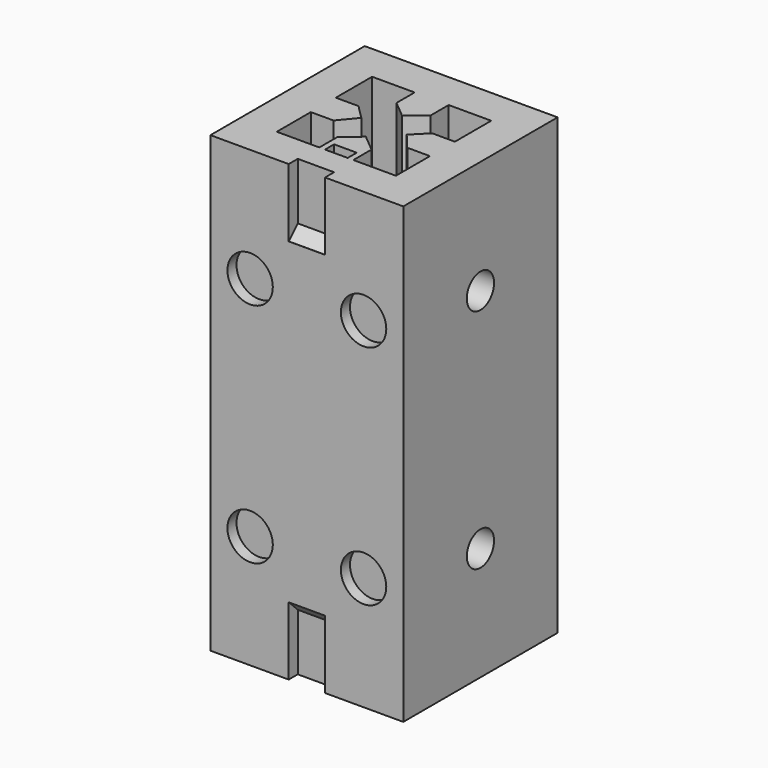
from build123d import *

# Parameters (mm, degrees)
SKETCH_W        = 34
SKETCH_H        = 34
PAD_DEPTH       = 80
POCKET_DEPTH    = 80
SKETCH002_R     = 3
POCKET001_DEPTH = 4
SKETCH003_R     = 3
POCKET002_DEPTH = 4
SKETCH004_R     = 4
POCKET003_DEPTH = 2
SKETCH005_R     = 4
POCKET004_DEPTH = 2
SKETCH006_W     = 6.4
SKETCH006_H     = 2
SKETCH006_W_2   = 4
POCKET005_DEPTH = 12
SKETCH007_W     = 6.4
SKETCH007_H     = 2
SKETCH007_W_2   = 4
POCKET006_DEPTH = 12
CHAMFER_SIZE    = 1.98
CHAMFER001_SIZE = 1.98


with BuildPart() as part:
    # Sketch → Pad (new body)
    with BuildSketch(Plane.XY):
        with Locations((17, 17)):
            Rectangle(SKETCH_W, SKETCH_H)
    extrude(amount=PAD_DEPTH)

    # Sketch001 (on Face6 of Pad) → Pocket (cut)
    with BuildSketch(Plane.XY.offset(80)):
        Polygon((6.5, 27.5), (14, 27.5), (14, 23.5), (17, 21), (20, 23.5), (20, 27.5), (27.5, 27.5), (27.5, 19.5), (23.5, 19.5), (21, 17), (23.5, 14), (27.5, 14), (27.5, 6.5), (20, 6.5), (20, 10.5), (17, 13), (14, 10.5), (14, 6.5), (6.5, 6.5), (6.5, 14), (10.5, 14), (13, 17), (10.5, 19.5), (6.5, 19.5), align=None)
    extrude(amount=-POCKET_DEPTH, mode=Mode.SUBTRACT)

    # Sketch002 (on Face2 of Pocket) → Pocket001 (cut)
    with BuildSketch(Plane(origin=(0, 0, 0), x_dir=(0, -1, 0), z_dir=(-1, 0, 0))):
        with Locations((-17, 60)):
            Circle(SKETCH002_R)
        with Locations((-17, 20)):
            Circle(SKETCH002_R)
    extrude(amount=-POCKET001_DEPTH, mode=Mode.SUBTRACT)

    # Sketch003 (on Face3 of Pocket001) → Pocket002 (cut)
    with BuildSketch(Plane.YZ.offset(34)):
        with Locations((17, 60)):
            Circle(SKETCH003_R)
        with Locations((17, 20)):
            Circle(SKETCH003_R)
    extrude(amount=-POCKET002_DEPTH, mode=Mode.SUBTRACT)

    # Sketch004 (on Face1 of Pocket002) → Pocket003 (cut)
    with BuildSketch(Plane(origin=(0, 34, 0), x_dir=(-1, 0, 0), z_dir=(0, 1, 0))):
        with Locations((-27, 60)):
            Circle(SKETCH004_R)
        with Locations((-7, 60)):
            Circle(SKETCH004_R)
        with Locations((-27, 20)):
            Circle(SKETCH004_R)
        with Locations((-7, 20)):
            Circle(SKETCH004_R)
    extrude(amount=-POCKET003_DEPTH, mode=Mode.SUBTRACT)

    # Sketch005 (on Face10 of Pocket003) → Pocket004 (cut)
    with BuildSketch(Plane.XZ):
        with Locations((7, 60)):
            Circle(SKETCH005_R)
        with Locations((27, 60)):
            Circle(SKETCH005_R)
        with Locations((7, 20)):
            Circle(SKETCH005_R)
        with Locations((27, 20)):
            Circle(SKETCH005_R)
    extrude(amount=-POCKET004_DEPTH, mode=Mode.SUBTRACT)

    # Sketch006 (on Face4 of Pocket004) → Pocket005 (cut)
    with BuildSketch(Plane.XY.offset(80)):
        with Locations((17, 1)):
            Rectangle(SKETCH006_W, SKETCH006_H)
        with Locations((17, 7.5)):
            Rectangle(SKETCH006_W_2, SKETCH006_H)
    extrude(amount=-POCKET005_DEPTH, mode=Mode.SUBTRACT)

    # Sketch007 (on Face3 of Pocket005) → Pocket006 (cut)
    with BuildSketch(Plane(origin=(0, 0, 0), x_dir=(1, 0, 0), z_dir=(0, 0, -1))):
        with Locations((17, -1)):
            Rectangle(SKETCH007_W, SKETCH007_H)
        with Locations((17, -7.5)):
            Rectangle(SKETCH007_W_2, SKETCH007_H)
    extrude(amount=-POCKET006_DEPTH, mode=Mode.SUBTRACT)

    # Chamfer
    chamfer_edges = [part.edges().sort_by_distance(p)[0] for p in [
        (17, 2, 12),
    ]]
    chamfer(chamfer_edges, length=CHAMFER_SIZE)

    # Chamfer001
    chamfer001_edges = [part.edges().sort_by_distance(p)[0] for p in [
        (17, 2, 68),
    ]]
    chamfer(chamfer001_edges, length=CHAMFER001_SIZE)


solid = part.part
